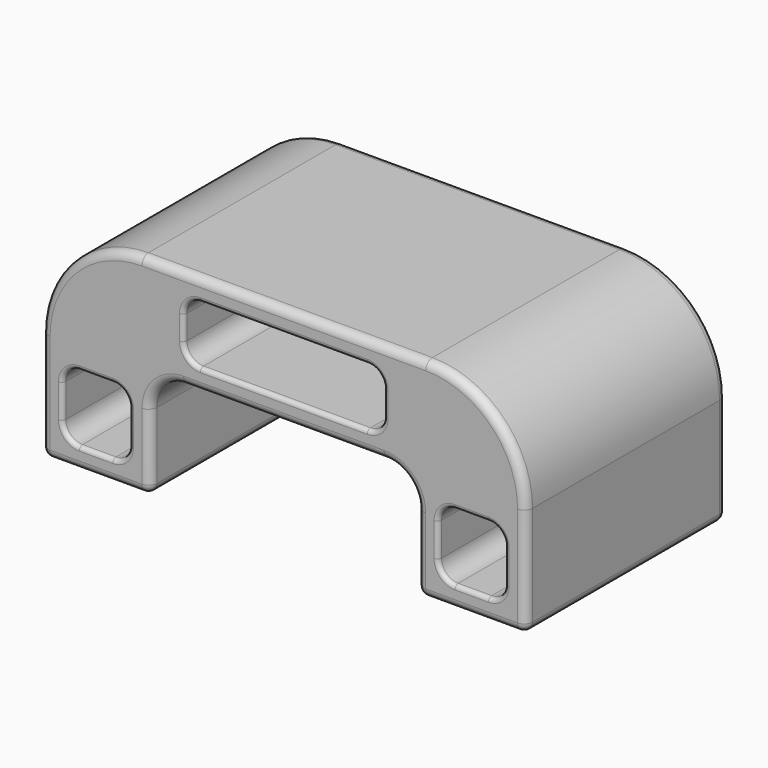
from build123d import *

# Parameters (mm, degrees)
F0_R     = 4.1
F1_DEPTH = 30
F2_R     = 4.1
F3_DEPTH = 4.1
F4_R     = 1
F5_R     = 0.3
F6_R     = 0.5


with BuildPart() as f1:
    # F0 (on Front) → F1 (new body)
    with BuildSketch(Plane.XZ):
        with BuildLine():
            Line((-29, 13), (-29, 0))
            Line((-29, 0), (-16, 0))
            Line((-16, 0), (-16, 9))
            ThreePointArc((-16, 9), (-14.828427, 11.828427), (-12, 13))
            Line((-12, 13), (0, 13))
            Line((0, 13), (12, 13))
            ThreePointArc((12, 13), (14.828427, 11.828427), (16, 9))
            Line((16, 9), (16, 0))
            Line((16, 0), (29, 0))
            Line((29, 0), (29, 13))
            ThreePointArc((29, 13), (25.485281, 21.485281), (17, 25))
            Line((17, 25), (0, 25))
            Line((0, 25), (-17, 25))
            ThreePointArc((-17, 25), (-25.485281, 21.485281), (-29, 13))
        make_face()
        with BuildLine():
            Line((-24.5, 10.535521), (-20.5, 10.535521))
            ThreePointArc((-20.5, 10.535521), (-19.085786, 9.949735), (-18.5, 8.535521))
            Line((-18.5, 8.535521), (-18.5, 4.535521))
            ThreePointArc((-18.5, 4.535521), (-19.085786, 3.121308), (-20.5, 2.535521))
            Line((-20.5, 2.535521), (-24.5, 2.535521))
            ThreePointArc((-24.5, 2.535521), (-25.914214, 3.121308), (-26.5, 4.535521))
            Line((-26.5, 4.535521), (-26.5, 8.535521))
            ThreePointArc((-26.5, 8.535521), (-25.914214, 9.949735), (-24.5, 10.535521))
        make_face(mode=Mode.SUBTRACT)
        with BuildLine():
            ThreePointArc((18.5, 8.535521), (19.085786, 9.949735), (20.5, 10.535521))
            Line((20.5, 10.535521), (24.5, 10.535521))
            ThreePointArc((24.5, 10.535521), (25.914214, 9.949735), (26.5, 8.535521))
            Line((26.5, 8.535521), (26.5, 4.535521))
            ThreePointArc((26.5, 4.535521), (25.914214, 3.121308), (24.5, 2.535521))
            Line((24.5, 2.535521), (20.5, 2.535521))
            ThreePointArc((20.5, 2.535521), (19.085786, 3.121308), (18.5, 4.535521))
            Line((18.5, 4.535521), (18.5, 8.535521))
        make_face(mode=Mode.SUBTRACT)
        with Locations((-20, 17)):
            Circle(F0_R, mode=Mode.SUBTRACT)
        with BuildLine():
            Line((-10, 22.439565), (10, 22.439565))
            ThreePointArc((10, 22.439565), (11.414214, 21.853779), (12, 20.439565))
            Line((12, 20.439565), (12, 17.530039))
            ThreePointArc((12, 17.530039), (11.414214, 16.115826), (10, 15.530039))
            Line((10, 15.530039), (-10, 15.530039))
            ThreePointArc((-10, 15.530039), (-11.414214, 16.115826), (-12, 17.530039))
            Line((-12, 17.530039), (-12, 20.439565))
            ThreePointArc((-12, 20.439565), (-11.414214, 21.853779), (-10, 22.439565))
        make_face(mode=Mode.SUBTRACT)
        with Locations((20, 17)):
            Circle(F0_R, mode=Mode.SUBTRACT)
    extrude(amount=F1_DEPTH)

    # F2 (on face) → F3 (join)
    with BuildSketch(Plane.XZ.offset(30)):
        with Locations((-20, 17)):
            Circle(F2_R)
        with Locations((20, 17)):
            Circle(F2_R)
    extrude(amount=-F3_DEPTH)

    # F4
    f4_edges = [f1.edges().sort_by_distance(p)[0] for p in [
        (0, 0, 25),
        (22.5, 0, 0),
        (-22.5, 0, 0),
        (-16, 0, 4.5),
        (0, -30, 25),
        (22.5, -30, 0),
        (-22.5, -30, 0),
        (-16, -30, 4.5),
        (29, -15, 0),
        (16, -15, 0),
        (-29, -15, 0),
        (-16, -15, 0),
    ]]
    fillet(f4_edges, radius=F4_R)

    # F5
    f5_edges = [f1.edges().sort_by_distance(p)[0] for p in [
        (15.9, 0, 17),
        (-24.1, 0, 17),
    ]]
    fillet(f5_edges, radius=F5_R)

    # F6
    f6_edges = [f1.edges().sort_by_distance(p)[0] for p in [
        (22.5, -30, 10.535521),
        (-22.5, -30, 10.535521),
        (22.5, 0, 10.535521),
        (-22.5, 0, 10.535521),
        (0, 0, 15.530039),
        (0, -30, 22.439565),
    ]]
    fillet(f6_edges, radius=F6_R)


solid = f1.part
